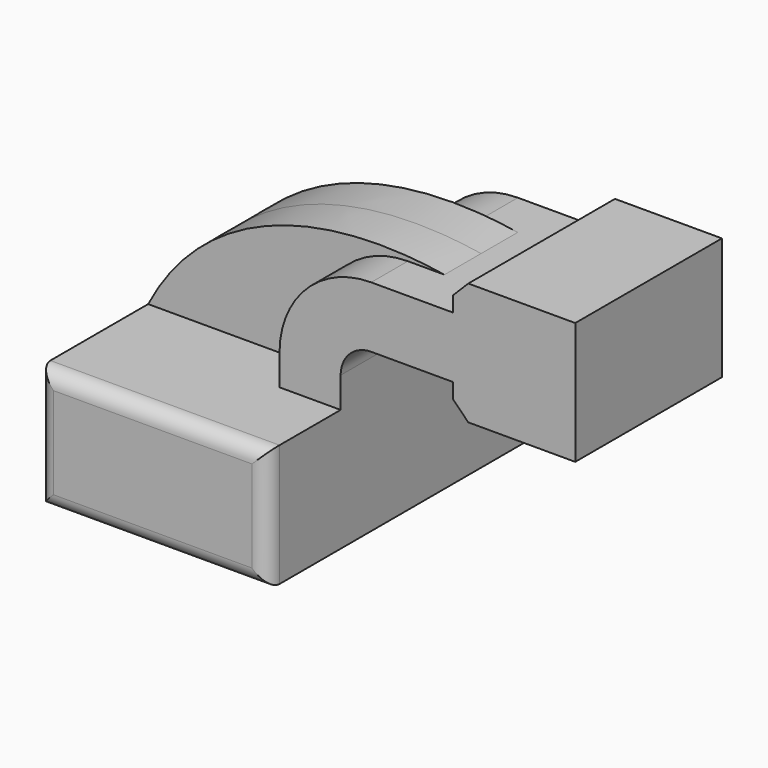
from build123d import *

# Parameters (mm, degrees)
F1_DEPTH = 30
F2_DEPTH = 60
F3_DEPTH = 15
F4_R     = 5
F5_SIZE  = 5
F6_R     = 5


with BuildPart() as f1:
    # F0 (on Front) → F1 (new body, symmetric)
    with BuildSketch(Plane.XZ):
        with BuildLine():
            Line((17.5, 20), (37.5, 20))
            Line((37.5, 20), (37.5, 30))
            ThreePointArc((37.5, 30), (40.428932, 37.071068), (47.5, 40))
            Line((47.5, 40), (74.281626, 40))
            Line((74.281626, 40), (74.281626, 60))
            Line((74.281626, 60), (59.462495, 60))
            Line((59.462495, 60), (47.5, 60))
            ThreePointArc((47.5, 60), (26.286797, 51.213203), (17.5, 30))
            Line((17.5, 30), (17.5, 20))
        make_face()
        Polygon((74.281626, 70), (74.281626, 60), (74.281626, 40), (74.281626, 30), (114.281626, 30), (114.281626, 70), align=None)
    extrude(amount=F1_DEPTH, both=True)

    # F0 (on Front) → F2 (join, symmetric)
    with BuildSketch(Plane.XZ):
        Polygon((-37.5, -20), (37.5, -20), (37.5, 20), (17.5, 20), (-37.5, 20), align=None)
    extrude(amount=F2_DEPTH, both=True)

    # F0 (on Front) → F3 (join, symmetric)
    with BuildSketch(Plane.XZ):
        with BuildLine():
            add(Edge.make_bspline(
                [(-37.5, 20), (-19.089822, 55.62811), (19.591885, 66.455275), (59.462495, 60)],
                knots=[0, 0, 0, 0, 104.88911, 104.88911, 104.88911, 104.88911], degree=3))
            Line((-37.5, 20), (17.5, 20))
            Line((17.5, 20), (17.5, 30))
            ThreePointArc((17.5, 30), (26.286797, 51.213203), (47.5, 60))
            Line((47.5, 60), (59.462495, 60))
        make_face()
    extrude(amount=F3_DEPTH, both=True)

    # F4
    f4_edges = [f1.edges().sort_by_distance(p)[0] for p in [
        (0, -60, 20),
        (-37.5, -60, 0),
        (0, -60, -20),
        (37.5, -60, 0),
    ]]
    fillet(f4_edges, radius=F4_R)

    # F5
    f5_edges = [f1.edges().sort_by_distance(p)[0] for p in [
        (74.281626, 0, 70),
        (74.281626, 0, 30),
    ]]
    chamfer(f5_edges, length=F5_SIZE)

    # F6
    f6_edges = [f1.edges().sort_by_distance(p)[0] for p in [
        (0, 60, 20),
        (-37.5, 60, 0),
        (0, 60, -20),
        (37.5, 60, 0),
    ]]
    fillet(f6_edges, radius=F6_R)


solid = f1.part
